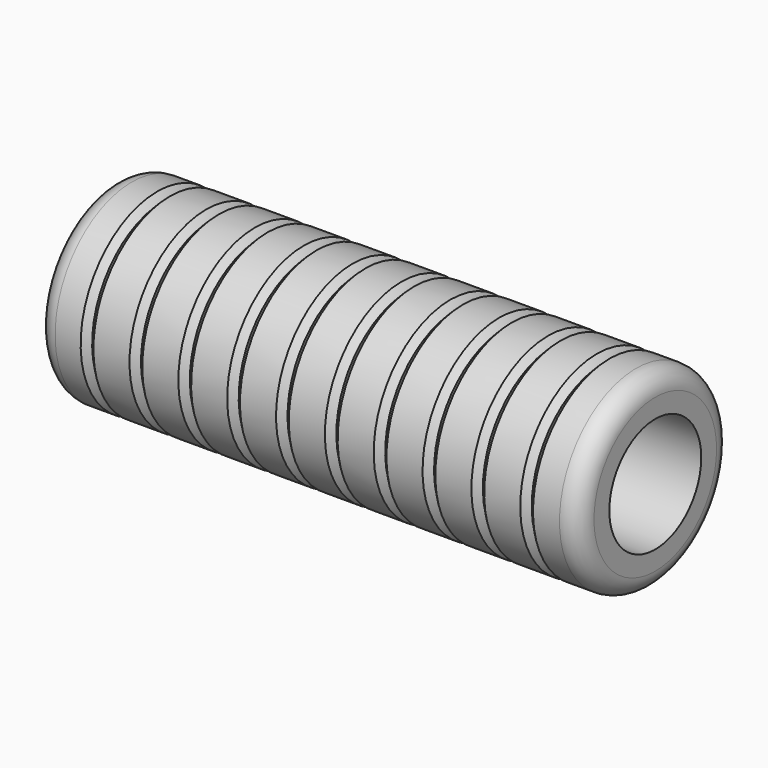
from build123d import *

# Parameters (mm, degrees)
F0_R     = 7.5
F0_R_2   = 4.5
F1_DEPTH = 42.5
F2_R     = 1.5


with BuildPart() as f1:
    # F0 (on Right) → F1 (new body)
    with BuildSketch(Plane.YZ):
        Circle(F0_R)
        Circle(F0_R_2, mode=Mode.SUBTRACT)
    extrude(amount=F1_DEPTH)

    # F2
    f2_edges = [f1.edges().sort_by_distance(p)[0] for p in [
        (42.5, -7.5, 0),
        (0, -7.5, 0),
    ]]
    fillet(f2_edges, radius=F2_R)

    # F6 (on Front) → F7 (revolve, cut)
    with BuildSketch(Plane.XZ):
        Polygon((5.414214, 8.414214), (2.585786, 8.414214), (4, 7), align=None)
        Polygon((6.410786, 8.414214), (7.825, 7), (9.239214, 8.414214), align=None)
        Polygon((10.235786, 8.414214), (11.65, 7), (13.064214, 8.414214), align=None)
        Polygon((14.060786, 8.414214), (15.475, 7), (16.889214, 8.414214), align=None)
        Polygon((17.885786, 8.414214), (19.3, 7), (20.714214, 8.414214), align=None)
        Polygon((21.710786, 8.414214), (23.125, 7), (24.539214, 8.414214), align=None)
        Polygon((25.535786, 8.414214), (26.95, 7), (28.364214, 8.414214), align=None)
        Polygon((29.360786, 8.414214), (30.775, 7), (32.189214, 8.414214), align=None)
        Polygon((33.185786, 8.414214), (34.6, 7), (36.014214, 8.414214), align=None)
        Polygon((37.010786, 8.414214), (38.425, 7), (39.839214, 8.414214), align=None)
    revolve(axis=Axis((21.25, 0, 0), (1, 0, 0)), mode=Mode.SUBTRACT)


solid = f1.part
